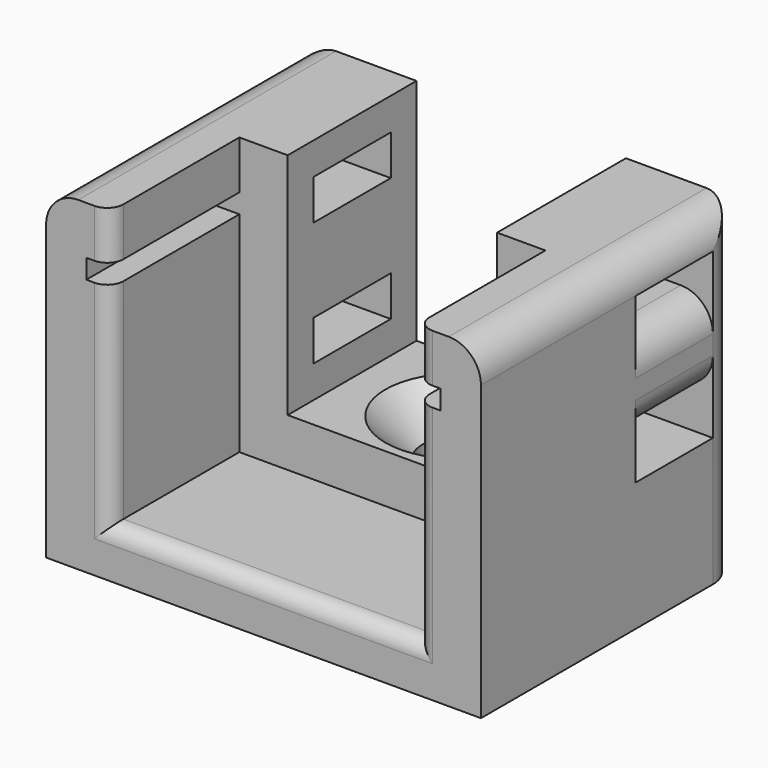
from build123d import *

# Parameters (mm, degrees)
F1_DEPTH       = 10
F3_DEPTH       = 10
F5_D           = 4.4
F5_CSINK_D     = 8.96
F5_CSINK_ANGLE = 90
F6_R           = 1
F7_R           = 2
F8_W           = 6
F8_H           = 2.5
F9_DEPTH       = 7.001
F9_DEPTH_BACK  = 20.001
F10_R          = 2


with BuildPart() as f1:
    # F0 (on Front) → F1 (new body)
    with BuildSketch(Plane.XZ):
        Polygon((-13.5, 20.2), (-13.5, 0), (13.5, 0), (13.5, 20.2), (9.5, 20.2), (9.5, 17.2), (11, 17.2), (11, 16), (9.5, 16), (9.5, 3), (-9.5, 3), (-9.5, 16), (-11, 16), (-11, 17.2), (-9.5, 17.2), (-9.5, 20.2), align=None)
    extrude(amount=F1_DEPTH)

    # F2 (on Front) → F3 (join)
    with BuildSketch(Plane.XZ):
        Polygon((-13.5, 0), (13.5, 0), (13.5, 20.2), (6.5, 20.2), (6.5, 6), (-6.5, 6), (-6.5, 20.2), (-13.5, 20.2), align=None)
    extrude(amount=-F3_DEPTH)

    # F5 (through all)
    with Locations(Plane.XY.offset(6)):
        with Locations((0, 5.0612445921)):
            CounterSinkHole(F5_D / 2, F5_CSINK_D / 2, counter_sink_angle=F5_CSINK_ANGLE)

    # F6
    f6_edges = [f1.edges().sort_by_distance(p)[0] for p in [
        (0, -10, 3),
        (-9.5, -10, 9.5),
        (-9.5, -10, 18.7),
        (9.5, -10, 18.7),
        (9.5, -10, 9.5),
    ]]
    fillet(f6_edges, radius=F6_R)

    # F7
    f7_edges = [f1.edges().sort_by_distance(p)[0] for p in [
        (-13.5, 0, 20.2),
        (-13.5, 10, 10.1),
        (13.5, 10, 10.1),
        (13.5, 0, 20.2),
    ]]
    fillet(f7_edges, radius=F7_R)

    # F8 (on face) → F9 (cut, two sides)
    with BuildSketch(Plane.YZ.offset(-6.5)) as f9_sk:
        with Locations((5, 16.95)):
            Rectangle(F8_W, F8_H)
        with Locations((5, 9.25)):
            Rectangle(F8_W, F8_H)
    extrude(amount=-F9_DEPTH, mode=Mode.SUBTRACT)
    extrude(f9_sk.sketch, amount=F9_DEPTH_BACK, mode=Mode.SUBTRACT)

    # F10
    f10_edges = [f1.edges().sort_by_distance(p)[0] for p in [
        (-13.5, 5, 15.7),
        (-13.5, 5, 10.5),
        (13.5, 5, 15.7),
        (13.5, 5, 10.5),
    ]]
    fillet(f10_edges, radius=F10_R)


solid = f1.part
